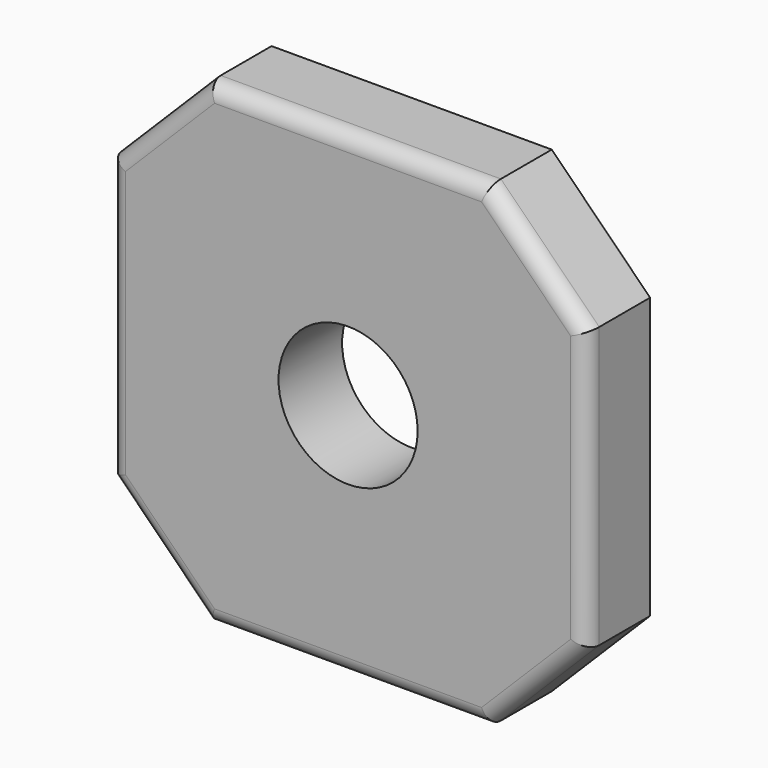
from build123d import *

# Parameters (mm, degrees)
F0_R     = 17.5
F1_DEPTH = 20
F2_R     = 4


with BuildPart() as f1:
    # F0 (on Front) → F1 (new body)
    with BuildSketch(Plane.XZ):
        Polygon((35.251263, 60), (-35.251263, 60), (-60, 35.251263), (-60, -35.251263), (-35.251263, -60), (35.251263, -60), (60, -35.251263), (60, 35.251263), align=None)
        Circle(F0_R, mode=Mode.SUBTRACT)
    extrude(amount=F1_DEPTH)

    # F2
    f2_edges = [f1.edges().sort_by_distance(p)[0] for p in [
        (47.625631, -20, 47.625631),
        (60, -20, 0),
        (47.625631, -20, -47.625631),
        (0, -20, -60),
        (-47.625631, -20, -47.625631),
        (-60, -20, 0),
        (-47.625631, -20, 47.625631),
        (0, -20, 60),
    ]]
    fillet(f2_edges, radius=F2_R)


solid = f1.part
